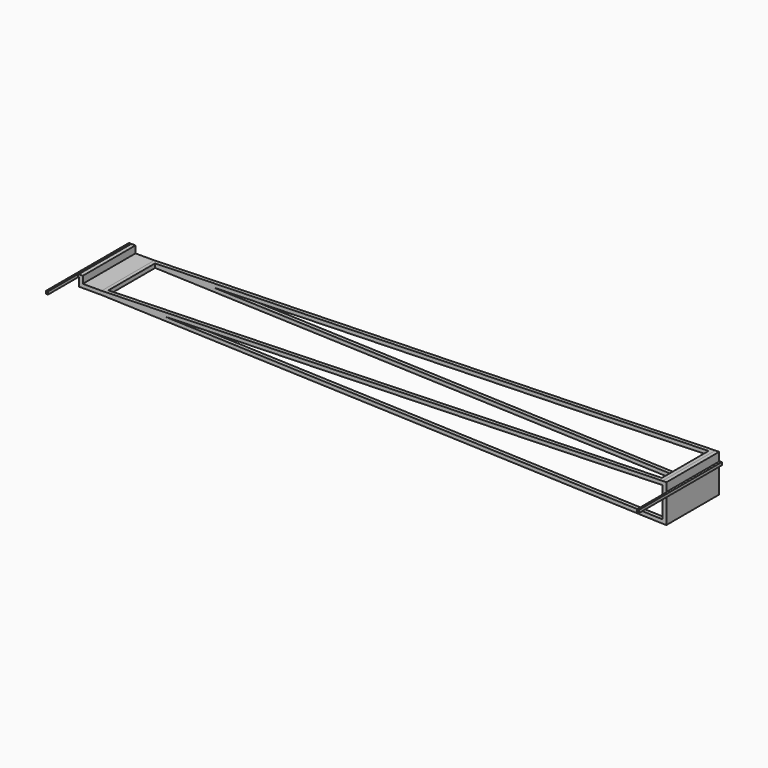
from build123d import *

# Parameters (mm, degrees)
F1_DEPTH  = 350
F3_W      = 2941.07
F3_H      = 310
F4_DEPTH  = 250
F6_W      = 10
F6_H      = 15
F7_DEPTH  = 200
F10_D     = 5
F10_DEPTH = 50
F10_TIP   = 1.5021515476


with BuildPart() as f1:
    # F0 (on Front) → F1 (new body)
    with BuildSketch(Plane.XZ):
        Polygon((-2990, -50), (-10, -150), (10, -150), (10, -5), (15, -5), (15, -7.5), (25, -7.5), (25, 7.5), (15, 7.5), (15, 5), (10, 5), (10, 50), (-10, 50), (-2990, -30), (-3090, -30), (-3090, 7.5), (-3110, 7.5), (-3110, 5), (-3115, 5), (-3115, 7.5), (-3125, 7.5), (-3125, -7.5), (-3115, -7.5), (-3115, -5), (-3110, -5), (-3110, -50), align=None)
        Polygon((-2658.8888888889, -41.1111111111), (-10, 30), (-10, -130), align=None, mode=Mode.SUBTRACT)
    extrude(amount=F1_DEPTH)

    # F3 (on offset) → F4 (cut)
    with BuildSketch(Plane(origin=(-1.3485169015, 0, 50.2322545798), x_dir=(0.9996398505, 0, 0.0268359691), z_dir=(-0.0268359691, 0, 0.9996398505))):
        with Locations((-1499.1932015429, -175)):
            Rectangle(F3_W, F3_H)
    extrude(amount=-F4_DEPTH, mode=Mode.SUBTRACT)

    # F6 (on offset) → F7 (join)
    with BuildSketch(Plane.XZ.offset(350)):
        with Locations((20, 0)):
            Rectangle(F6_W, F6_H)
        with Locations((-3120, 0)):
            Rectangle(F6_W, F6_H)
    extrude(amount=F7_DEPTH)

    # F10
    with Locations(Plane(origin=(-1.3485169015, 0, 50.2322545798), x_dir=(0.9996398505, 0, 0.0268359691), z_dir=(-0.0268359691, 0, 0.9996398505))):
        with Locations((-1549.191416098, 0)):
            Hole(F10_D / 2, depth=F10_DEPTH)
            with Locations((0, 0, -(F10_DEPTH + F10_TIP / 2))):  # 118° drill point
                Cone(0, F10_D / 2, F10_TIP, mode=Mode.SUBTRACT)


solid = f1.part
